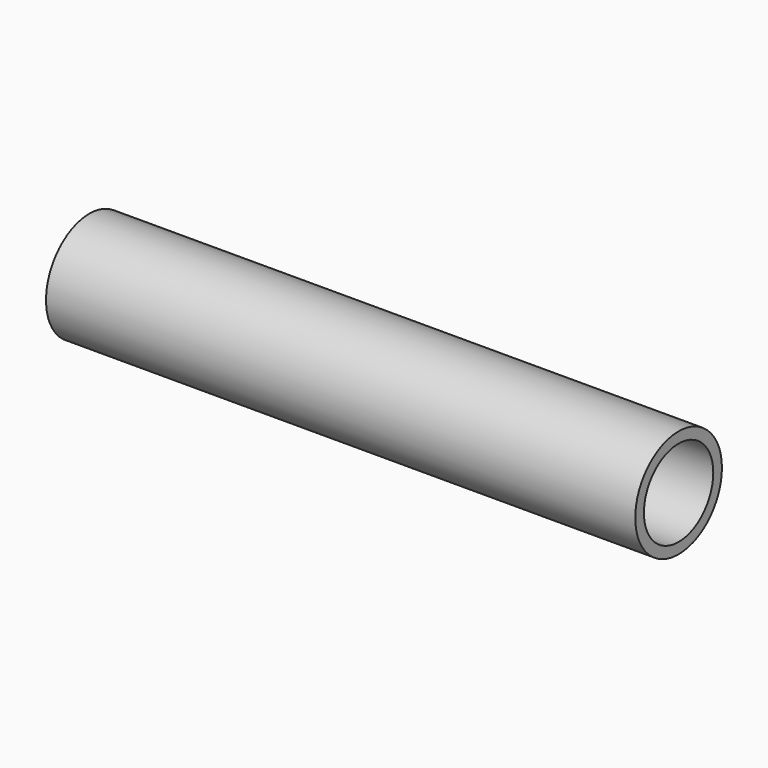
from build123d import *

# Parameters (mm, degrees)
F0_R = 17
F3_T = -3.4


with BuildPart() as f2:
    # F2: sweep along a path in F1
    with BuildLine(Plane.XZ) as f2_path:
        Line((0, 0), (-184.9, 0))
    # F0 (on Right) → F2 (sweep)
    with BuildSketch(Plane.YZ):
        Circle(F0_R)
    sweep(path=f2_path.line)

    # F3
    f3_openings = [f2.faces().sort_by_distance(p)[0] for p in [
        (-184.9, 0, 0),
        (0, 0, 0),
    ]]
    offset(amount=F3_T, openings=f3_openings)


solid = f2.part
